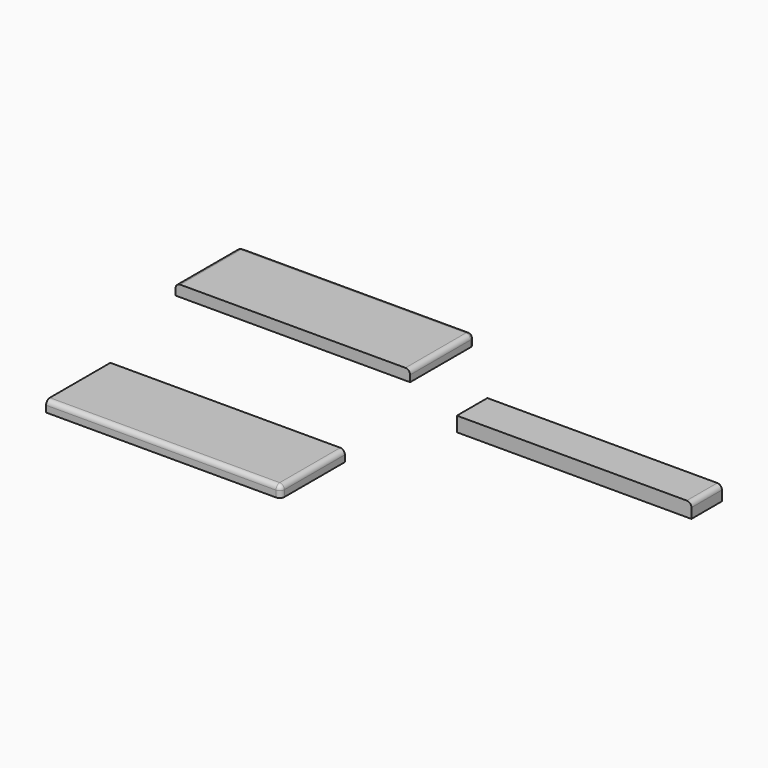
from build123d import *

# Parameters (mm, degrees)
F0_W     = 400
F0_H     = 137
F3_DEPTH = 19
F1_W     = 400
F1_H     = 137
F4_DEPTH = 19
F2_W     = 400
F2_H     = 65
F5_DEPTH = 25
F6_R     = 8
F7_R     = 8
F8_R     = 8
F9_R     = 8
F10_R    = 8
F11_R    = 8


with BuildPart() as f3:
    # F0 (on Top) → F3 (new body)
    with BuildSketch(Plane.XY):
        with Locations((-199.570805, 109.835393)):
            Rectangle(F0_W, F0_H)
    extrude(amount=F3_DEPTH)

    # F6
    f6_edges = [f3.edges().sort_by_distance(p)[0] for p in [
        (0.429195, 109.835393, 19),
    ]]
    fillet(f6_edges, radius=F6_R)

    # F10
    f10_edges = [f3.edges().sort_by_distance(p)[0] for p in [
        (-203.570805, 178.335393, 19),
    ]]
    fillet(f10_edges, radius=F10_R)

    # F11
    f11_edges = [f3.edges().sort_by_distance(p)[0] for p in [
        (-399.570805, 105.835393, 19),
    ]]
    fillet(f11_edges, radius=F11_R)


with BuildPart() as f4:
    # F1 (on Top) → F4 (new body)
    with BuildSketch(Plane.XY):
        with Locations((-123.469599, -261.247193)):
            Rectangle(F1_W, F1_H)
    extrude(amount=F4_DEPTH)

    # F8
    f8_edges = [f4.edges().sort_by_distance(p)[0] for p in [
        (76.530401, -261.247193, 19),
    ]]
    fillet(f8_edges, radius=F8_R)

    # F9
    f9_edges = [f4.edges().sort_by_distance(p)[0] for p in [
        (-127.469599, -329.747193, 19),
    ]]
    fillet(f9_edges, radius=F9_R)


with BuildPart() as f5:
    # F2 (on Top) → F5 (new body)
    with BuildSketch(Plane.XY):
        with Locations((339.257847, 0)):
            Rectangle(F2_W, F2_H)
    extrude(amount=F5_DEPTH)

    # F7
    f7_edges = [f5.edges().sort_by_distance(p)[0] for p in [
        (539.257847, 0, 25),
    ]]
    fillet(f7_edges, radius=F7_R)


solid = Compound([f3.part, f4.part, f5.part])
